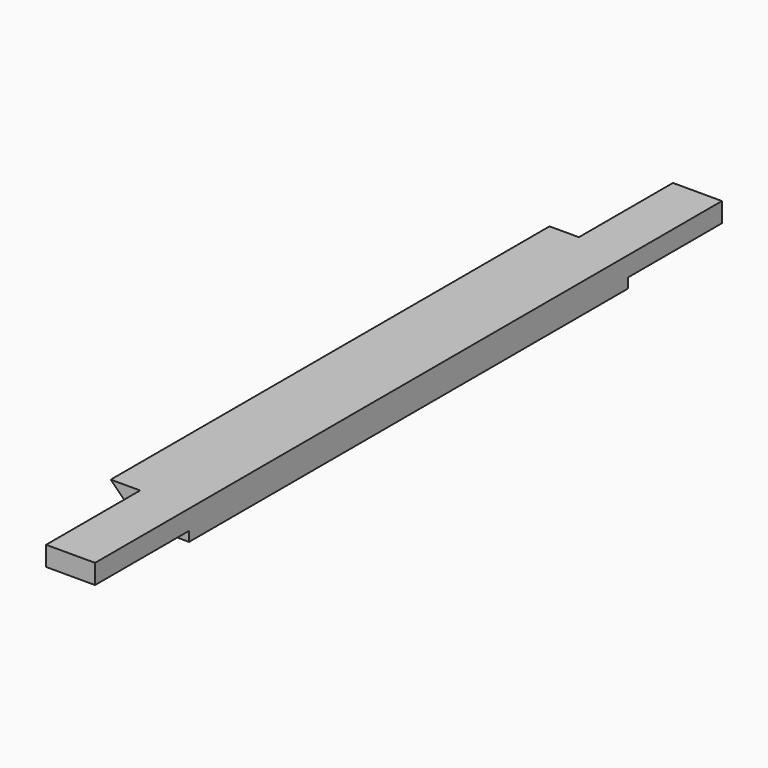
from build123d import *

# Parameters (mm, degrees)
F1_DEPTH = 508
F2_W     = 19.05
F2_H     = 76.2
F3_DEPTH = 25.4
F4_W     = 76.2
F4_H     = 6.35
F5_DEPTH = 50.801


with BuildPart() as f1:
    # F0 (on Front) → F1 (new body)
    with BuildSketch(Plane.XZ):
        Polygon((0, -19.05), (0, 0), (-50.8, 0), (-31.75, -19.05), align=None)
    extrude(amount=F1_DEPTH)

    # F2 (on face) → F3 (cut)
    with BuildSketch(Plane.XY):
        with Locations((-41.275, -38.1)):
            Rectangle(F2_W, F2_H)
        with Locations((-41.275, -469.9)):
            Rectangle(F2_W, F2_H)
    extrude(amount=-F3_DEPTH, mode=Mode.SUBTRACT)

    # F4 (on face) → F5 (cut, through all)
    with BuildSketch(Plane.YZ):
        with Locations((-469.9, -15.875)):
            Rectangle(F4_W, F4_H)
        with Locations((-38.1, -15.875)):
            Rectangle(F4_W, F4_H)
    extrude(amount=-F5_DEPTH, mode=Mode.SUBTRACT)


solid = f1.part
